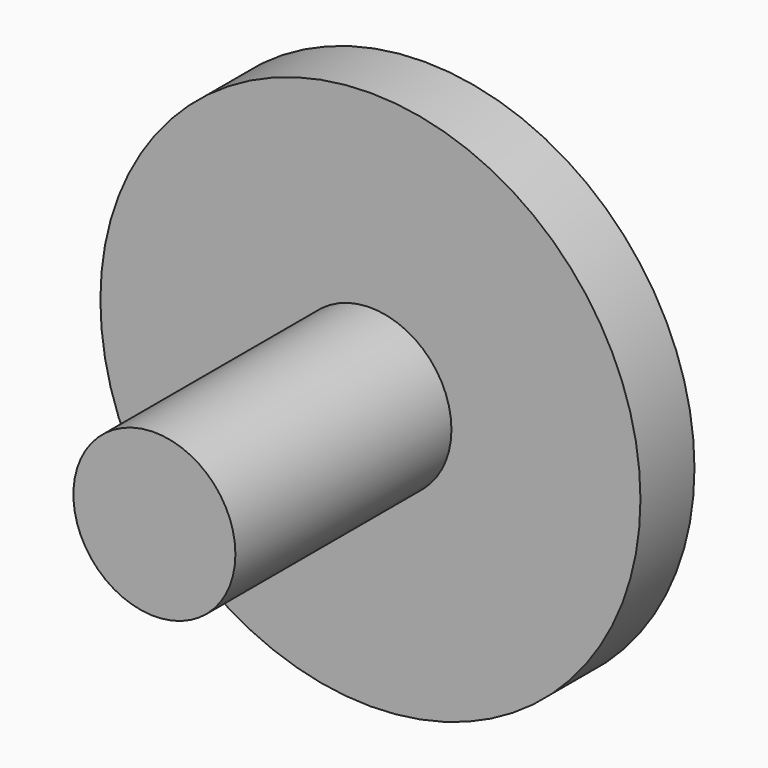
from build123d import *

# Parameters (mm, degrees)
CYLINDER_R             = 2.4
CYLINDER_DEPTH         = 10
CYLINDER_ROLL_ANGLE    = 90
CYLINDER001_R          = 8
CYLINDER001_DEPTH      = 2
CYLINDER001_ROLL_ANGLE = 90


with BuildPart() as obj1:
    # Cylinder → Cylinder (new body)
    with BuildSketch(Plane.XY):
        Circle(CYLINDER_R)
    extrude(amount=CYLINDER_DEPTH)


with BuildPart() as obj1_1:
    # Cylinder roll: moved
    add(obj1.part.rotate(Axis((0, 0, 0), (1, 0, 0)), CYLINDER_ROLL_ANGLE))


with BuildPart() as obj1_2:
    # Cylinder placement: moved
    add(obj1_1.part)


with BuildPart() as pivot:
    # Cylinder001 → Cylinder001 (new body)
    with BuildSketch(Plane.XY):
        Circle(CYLINDER001_R)
    extrude(amount=CYLINDER001_DEPTH)


with BuildPart() as pivot_1:
    # Cylinder001 roll: moved
    add(pivot.part.rotate(Axis((0, 0, 0), (1, 0, 0)), CYLINDER001_ROLL_ANGLE))


with BuildPart() as pivot_2:
    # Cylinder001 placement: moved
    add(pivot_1.part)

    # Fusion002: union obj1
    add(obj1_2.part)


solid = pivot_2.part
